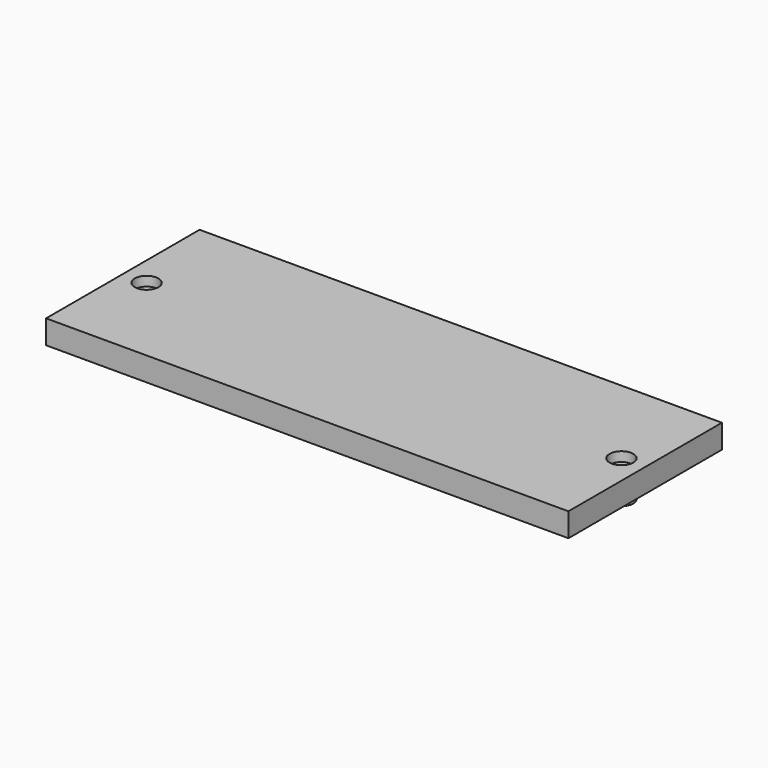
from build123d import *

# Parameters (mm, degrees)
F0_W     = 139.7
F0_H     = 51.308
F1_DEPTH = 6.35
F2_R     = 1.27
F3_DEPTH = 10.414
F2_R_2   = 3.175
F4_DEPTH = 2.54
F5_DEPTH = 7.112


with BuildPart() as f1:
    # F0 (on Top) → F1 (new body)
    with BuildSketch(Plane.XY):
        with Locations((18.3706976533, 5.599814237)):
            Rectangle(F0_W, F0_H)
    extrude(amount=F1_DEPTH)

    # F2 (on face) → F3 (cut)
    with BuildSketch(Plane.XY.offset(6.35)):
        with BuildLine():
            ThreePointArc((-43.8593023467, 5.599814237), (-45.1293023467, 6.869814237), (-46.3993023467, 5.599814237))
            ThreePointArc((-46.3993023467, 5.599814237), (-45.1293023467, 4.329814237), (-43.8593023467, 5.599814237))
        make_face()
        with Locations((81.8706976533, 5.599814237)):
            Circle(F2_R)
    extrude(amount=-F3_DEPTH, mode=Mode.SUBTRACT)

    # F2 (on face) → F4 (cut)
    with BuildSketch(Plane.XY.offset(6.35)):
        with BuildLine():
            ThreePointArc((-41.9543023467, 5.599814237), (-45.1293023467, 8.774814237), (-48.3043023467, 5.599814237))
            ThreePointArc((-48.3043023467, 5.599814237), (-45.1293023467, 2.424814237), (-41.9543023467, 5.599814237))
        make_face()
        with BuildLine():
            ThreePointArc((-43.8593023467, 5.599814237), (-45.1293023467, 4.329814237), (-46.3993023467, 5.599814237))
            ThreePointArc((-46.3993023467, 5.599814237), (-45.1293023467, 6.869814237), (-43.8593023467, 5.599814237))
        make_face(mode=Mode.SUBTRACT)
        with Locations((81.8706976533, 5.599814237)):
            Circle(F2_R_2)
        with Locations((81.8706976533, 5.599814237)):
            Circle(F2_R, mode=Mode.SUBTRACT)
    extrude(amount=-F4_DEPTH, mode=Mode.SUBTRACT)

    # F5 (add): faces of the model
    f5_faces = [f1.faces().sort_by_distance(p)[0] for p in [
        (-42.0441049079, 5.599814237, 3.81),
        (78.7855002145, 5.599814237, 3.81),
    ]]
    extrude(f5_faces, amount=-F5_DEPTH)


solid = f1.part
